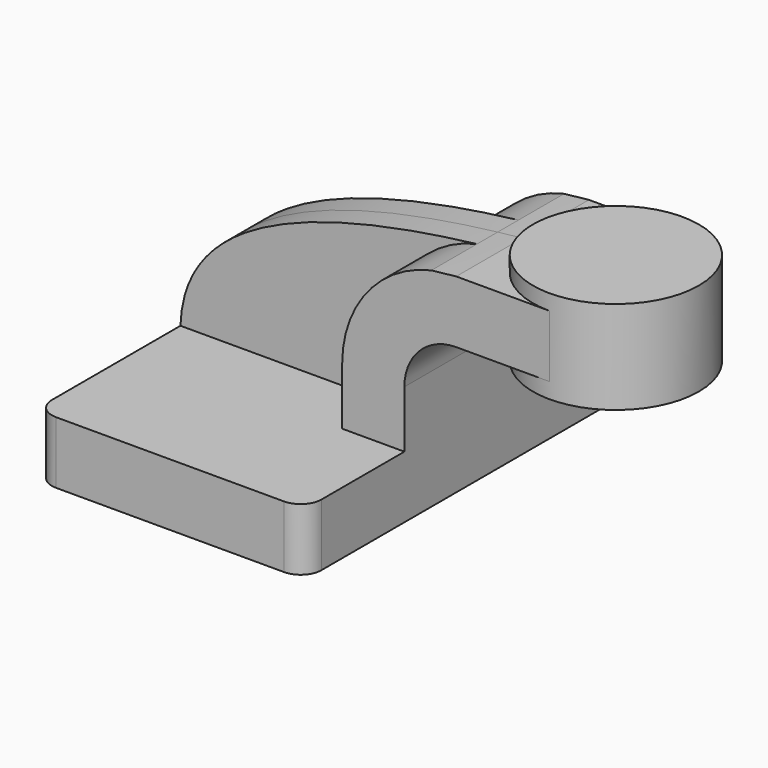
from build123d import *

# Parameters (mm, degrees)
F1_DEPTH = 63.5
F0_W     = 25.4
F0_H     = 19.05
F2_DEPTH = 25.4
F3_DEPTH = 7.9375
F5_R     = 6.35


with BuildPart() as f1:
    # F0 (on Front) → F1 (new body, symmetric)
    with BuildSketch(Plane.XZ):
        Polygon((-41.275, 9.525), (-41.275, -9.525), (41.275, -9.525), (41.275, 9.525), (22.225, 9.525), align=None)
    extrude(amount=F1_DEPTH, both=True)

    # F0 (on Front) → F2 (join, symmetric)
    with BuildSketch(Plane.XZ):
        with Locations((73.025, 52.4002)):
            Rectangle(F0_W, F0_H)
        with BuildLine():
            Line((22.225, 9.525), (41.275, 9.525))
            Line((41.275, 9.525), (41.275, 27.0002))
            ThreePointArc((41.275, 27.0002), (45.9246798487, 38.2255201513), (57.15, 42.8752))
            Line((57.15, 42.8752), (60.325, 42.8752))
            Line((60.325, 42.8752), (60.325, 61.9252))
            Line((60.325, 61.9252), (57.15, 61.9252))
            add(Edge.make_bspline(
                [(49.5341389387, 61.0847167971), (52.0165926288, 61.3804145592), (54.5550102492, 61.6605939635), (57.15, 61.9252)],
                knots=[107.2754549523, 107.2754549523, 107.2754549523, 107.2754549523, 111.5045361635, 111.5045361635, 111.5045361635, 111.5045361635], degree=3))
            ThreePointArc((49.5341389387, 61.0847167971), (29.8943623028, 48.8379159684), (22.225, 27.0002))
            Line((22.225, 27.0002), (22.225, 9.525))
        make_face()
    extrude(amount=F2_DEPTH, both=True)

    # F0 (on Front) → F3 (join, symmetric)
    with BuildSketch(Plane.XZ):
        with BuildLine():
            add(Edge.make_bspline(
                [(-41.275, 9.525), (-40.3969005812, 36.0981502057), (-13.4361223791, 53.584006744), (49.5341389387, 61.0847167971)],
                knots=[0, 0, 0, 0, 107.2754549523, 107.2754549523, 107.2754549523, 107.2754549523], degree=3))
            Line((-41.275, 9.525), (22.225, 9.525))
            Line((22.225, 9.525), (22.225, 27.0002))
            ThreePointArc((22.225, 27.0002), (29.8943623028, 48.8379159684), (49.5341389387, 61.0847167971))
        make_face()
    extrude(amount=F3_DEPTH, both=True)

    # F0 (on Front) → F4 (revolve)
    with BuildSketch(Plane.XZ):
        Polygon((85.725, 66.675), (85.725, 61.9252), (85.725, 42.8752), (85.725, 38.1), (111.125, 38.1), (111.125, 66.675), align=None)
    revolve(axis=Axis((85.725, 0, 52.3875), (0, 0, 1)))

    # F5
    f5_edges = [f1.edges().sort_by_distance(p)[0] for p in [
        (-41.275, -63.5, 0),
        (41.275, -63.5, 0),
        (41.275, 63.5, 0),
        (-41.275, 63.5, 0),
    ]]
    fillet(f5_edges, radius=F5_R)


solid = f1.part
